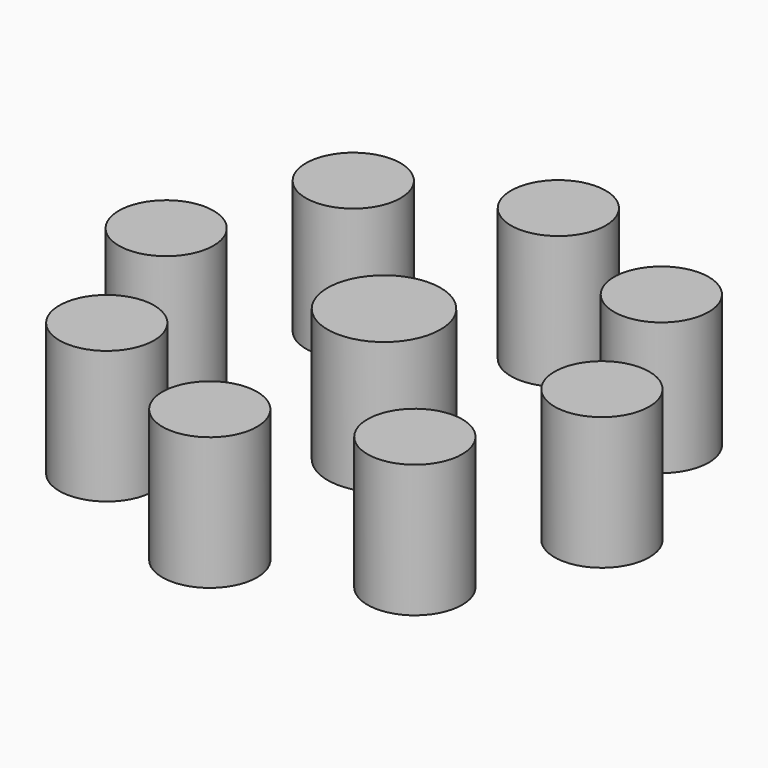
from build123d import *

# Parameters (mm, degrees)
F0_R     = 5.962049
F0_R_2   = 5
F1_DEPTH = 14


with BuildPart() as f1:
    # F0 (on Top) → F1 (new body)
    with BuildSketch(Plane.XY):
        Circle(F0_R)
        with Locations((0, 23)):
            Circle(F0_R_2)
        with Locations((-16.263456, 16.263456)):
            Circle(F0_R_2)
        with Locations((-23, 0)):
            Circle(F0_R_2)
        with Locations((-16.263456, -16.263456)):
            Circle(F0_R_2)
        with Locations((0, -23)):
            Circle(F0_R_2)
        with Locations((16.263456, -16.263456)):
            Circle(F0_R_2)
        with Locations((23, 0)):
            Circle(F0_R_2)
        with Locations((16.263456, 16.263456)):
            Circle(F0_R_2)
    extrude(amount=F1_DEPTH)


solid = f1.part
